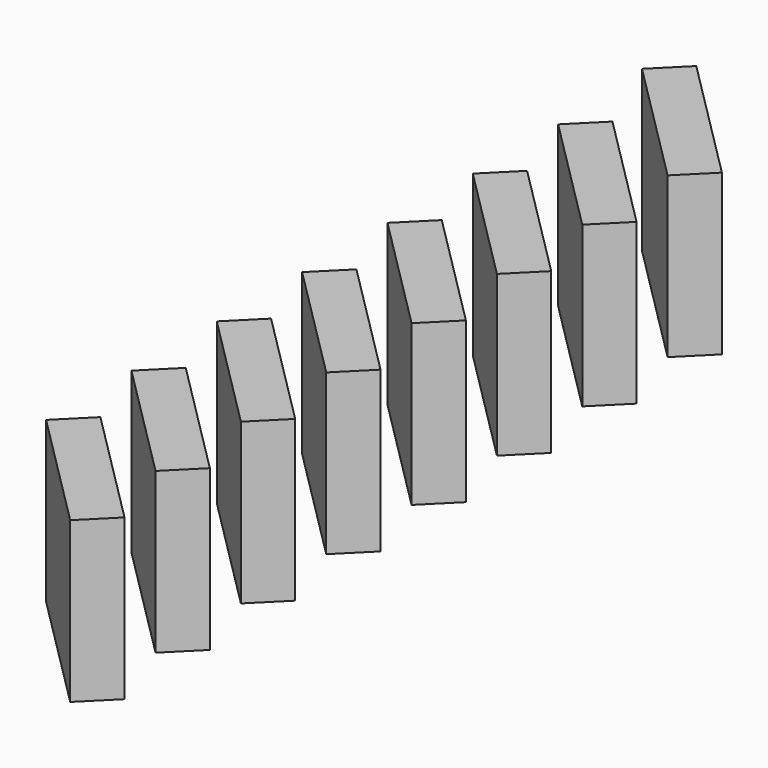
from build123d import *

# Parameters (mm, degrees)
BOX079_W               = 16
BOX079_H               = 4
BOX079_DEPTH           = 15
BOX079_PLACEMENT_ANGLE = 135
BOX080_W               = 16
BOX080_H               = 4
BOX080_DEPTH           = 15
BOX080_PLACEMENT_ANGLE = 135
BOX081_W               = 16
BOX081_H               = 4
BOX081_DEPTH           = 15
BOX081_PLACEMENT_ANGLE = 135
BOX082_W               = 16
BOX082_H               = 4
BOX082_DEPTH           = 15
BOX082_PLACEMENT_ANGLE = 135
BOX083_W               = 16
BOX083_H               = 4
BOX083_DEPTH           = 15
BOX083_PLACEMENT_ANGLE = 135
BOX084_W               = 16
BOX084_H               = 4
BOX084_DEPTH           = 15
BOX084_PLACEMENT_ANGLE = 135
BOX085_W               = 17
BOX085_H               = 4
BOX085_DEPTH           = 15
BOX085_PLACEMENT_ANGLE = 135
BOX078_W               = 16
BOX078_H               = 4
BOX078_DEPTH           = 15
BOX078_PLACEMENT_ANGLE = 135


with BuildPart() as ventcut009:
    # Box079 → Box079 (new body)
    with BuildSketch(Plane.XY):
        with Locations((8, 2)):
            Rectangle(BOX079_W, BOX079_H)
    extrude(amount=BOX079_DEPTH)


with BuildPart() as ventcut009_1:
    # Box079 placement: moved
    add(ventcut009.part.moved(Location((-4, 36, 0))).rotate(Axis((-4, 36, 0), (0, 0, 1)), BOX079_PLACEMENT_ANGLE))


with BuildPart() as ventcut010:
    # Box080 → Box080 (new body)
    with BuildSketch(Plane.XY):
        with Locations((8, 2)):
            Rectangle(BOX080_W, BOX080_H)
    extrude(amount=BOX080_DEPTH)


with BuildPart() as ventcut010_1:
    # Box080 placement: moved
    add(ventcut010.part.moved(Location((-4, 26, 0))).rotate(Axis((-4, 26, 0), (0, 0, 1)), BOX080_PLACEMENT_ANGLE))


with BuildPart() as ventcut011:
    # Box081 → Box081 (new body)
    with BuildSketch(Plane.XY):
        with Locations((8, 2)):
            Rectangle(BOX081_W, BOX081_H)
    extrude(amount=BOX081_DEPTH)


with BuildPart() as ventcut011_1:
    # Box081 placement: moved
    add(ventcut011.part.moved(Location((-4, 46, 0))).rotate(Axis((-4, 46, 0), (0, 0, 1)), BOX081_PLACEMENT_ANGLE))


with BuildPart() as ventcut012:
    # Box082 → Box082 (new body)
    with BuildSketch(Plane.XY):
        with Locations((8, 2)):
            Rectangle(BOX082_W, BOX082_H)
    extrude(amount=BOX082_DEPTH)


with BuildPart() as ventcut012_1:
    # Box082 placement: moved
    add(ventcut012.part.moved(Location((-4, 56, 0))).rotate(Axis((-4, 56, 0), (0, 0, 1)), BOX082_PLACEMENT_ANGLE))


with BuildPart() as ventcut013:
    # Box083 → Box083 (new body)
    with BuildSketch(Plane.XY):
        with Locations((8, 2)):
            Rectangle(BOX083_W, BOX083_H)
    extrude(amount=BOX083_DEPTH)


with BuildPart() as ventcut013_1:
    # Box083 placement: moved
    add(ventcut013.part.moved(Location((-4, 66, 0))).rotate(Axis((-4, 66, 0), (0, 0, 1)), BOX083_PLACEMENT_ANGLE))


with BuildPart() as ventcut014:
    # Box084 → Box084 (new body)
    with BuildSketch(Plane.XY):
        with Locations((8, 2)):
            Rectangle(BOX084_W, BOX084_H)
    extrude(amount=BOX084_DEPTH)


with BuildPart() as ventcut014_1:
    # Box084 placement: moved
    add(ventcut014.part.moved(Location((-4, 76, 0))).rotate(Axis((-4, 76, 0), (0, 0, 1)), BOX084_PLACEMENT_ANGLE))


with BuildPart() as ventcut015:
    # Box085 → Box085 (new body)
    with BuildSketch(Plane.XY):
        with Locations((8.5, 2)):
            Rectangle(BOX085_W, BOX085_H)
    extrude(amount=BOX085_DEPTH)


with BuildPart() as ventcut015_1:
    # Box085 placement: moved
    add(ventcut015.part.moved(Location((-4, 86, 0))).rotate(Axis((-4, 86, 0), (0, 0, 1)), BOX085_PLACEMENT_ANGLE))


with BuildPart() as rightvents001:
    # Box078 → Box078 (new body)
    with BuildSketch(Plane.XY):
        with Locations((8, 2)):
            Rectangle(BOX078_W, BOX078_H)
    extrude(amount=BOX078_DEPTH)


with BuildPart() as rightvents001_1:
    # Box078 placement: moved
    add(rightvents001.part.moved(Location((-4, 16, 0))).rotate(Axis((-4, 16, 0), (0, 0, 1)), BOX078_PLACEMENT_ANGLE))

    # Fusion049: union ventCut009, ventCut010, ventCut011, ventCut012, ventCut013, ventCut014, ventCut015
    add(ventcut009_1.part)
    add(ventcut010_1.part)
    add(ventcut011_1.part)
    add(ventcut012_1.part)
    add(ventcut013_1.part)
    add(ventcut014_1.part)
    add(ventcut015_1.part)


with BuildPart() as rightvents001_2:
    # Fusion049 placement: moved
    add(rightvents001_1.part.moved(Location((151, 2.5, 4))))


solid = rightvents001_2.part
